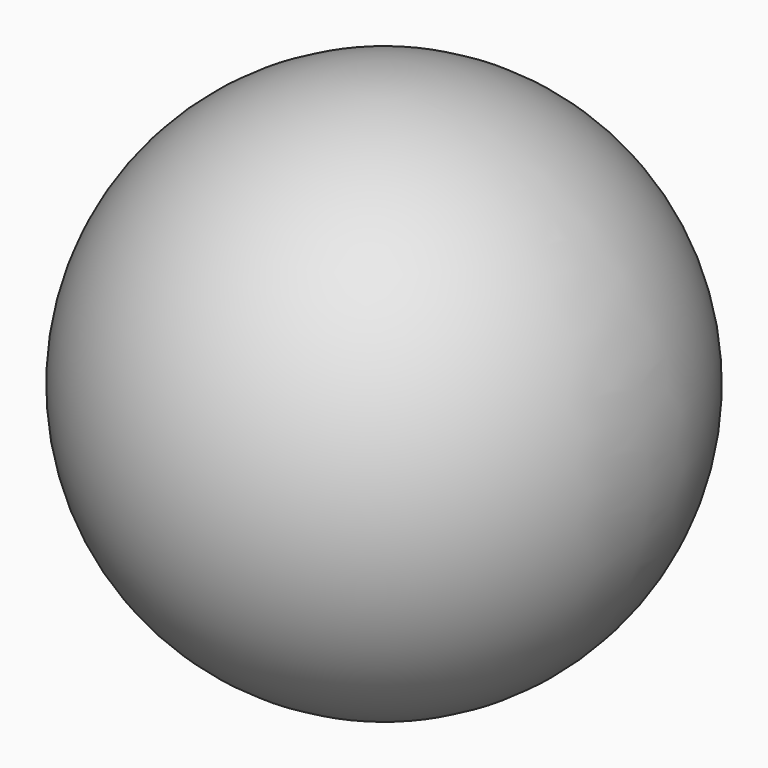
from build123d import *

# Parameters (mm, degrees)
PAD004_DEPTH = 15
ARRAY_COUNT  = 30
PAD003_DEPTH = 3
SKETCH_R     = 1.5
PAD_DEPTH    = 4
CHAMFER_SIZE = 0.5
SKETCH001_R  = 3
PAD001_DEPTH = 3
SKETCH002_R  = 5
PAD002_DEPTH = 3


with BuildPart() as obj1:
    # Sphere → Sphere (revolve)
    with BuildSketch(Plane(origin=(0, 0, 6), x_dir=(1, 0, 0), z_dir=(0, -1, 0))):
        with BuildLine():
            ThreePointArc((0, -7.25), (7.25, 0), (0, 7.25))
            Line((0, 7.25), (0, -7.25))
        make_face()
    revolve(axis=Axis((0, 0, 6), (0, 0, 1)))


with BuildPart() as array:
    # Sketch005 → Pad004 (new body)
    with BuildSketch(Plane.XY):
        with BuildLine():
            ThreePointArc((4.99375, 0.249922), (4.75, 0), (4.99375, -0.249922))
            ThreePointArc((4.99375, -0.249922), (5, 0), (4.99375, 0.249922))
        make_face()
    extrude(amount=PAD004_DEPTH)

    # Array: Array ×30 about axis
    array_axis = Axis((0, 0, 0), (0, 0, 1))


with BuildPart() as array_1:
    add(array.part)
    for i in range(1, ARRAY_COUNT):
        add(array.part.rotate(array_axis, i * 360 / ARRAY_COUNT))


with BuildPart() as pad003:
    # Sketch004 → Pad003 (new body)
    with BuildSketch(Plane.XY.offset(10)):
        Polygon((-0.625, 3.005), (0.625, 3.005), (0.625, 0.625), (3.005, 0.625), (3.005, -0.625), (0.625, -0.625), (0.625, -3.005), (-0.625, -3.005), (-0.625, -0.625), (-3.005, -0.625), (-3.005, 0.625), (-0.625, 0.625), align=None)
    extrude(amount=PAD003_DEPTH)


with BuildPart() as revolution:
    # Sketch003 → Revolution (revolve)
    with BuildSketch(Plane.XZ):
        with BuildLine():
            Line((0, 12), (0, 10))
            Line((-5, 10), (0, 10))
            ThreePointArc((0, 12), (-2.692582, 11.481456), (-5, 10))
        make_face()
    revolve(axis=Axis((0, 0, 0), (0, 0, 1)))


with BuildPart() as cut001:
    # Sketch → Pad (new body)
    with BuildSketch(Plane.XY):
        Circle(SKETCH_R)
    extrude(amount=PAD_DEPTH)

    # Chamfer
    chamfer_edges = [cut001.edges().sort_by_distance(p)[0] for p in [
        (-1.5, 0, 0),
    ]]
    chamfer(chamfer_edges, length=CHAMFER_SIZE)

    # Sketch001 → Pad001 (new body)
    with BuildSketch(Plane.XY.offset(4)):
        Circle(SKETCH001_R)
    extrude(amount=PAD001_DEPTH)

    # Sketch002 → Pad002 (new body)
    with BuildSketch(Plane.XY.offset(7)):
        Circle(SKETCH002_R)
    extrude(amount=PAD002_DEPTH)

    # Fusion: union Revolution
    add(revolution.part)

    # Cut: cut Pad003
    add(pad003.part, mode=Mode.SUBTRACT)

    # Cut001: cut Array
    add(array_1.part, mode=Mode.SUBTRACT)


solid = Compound([obj1.part, cut001.part])
